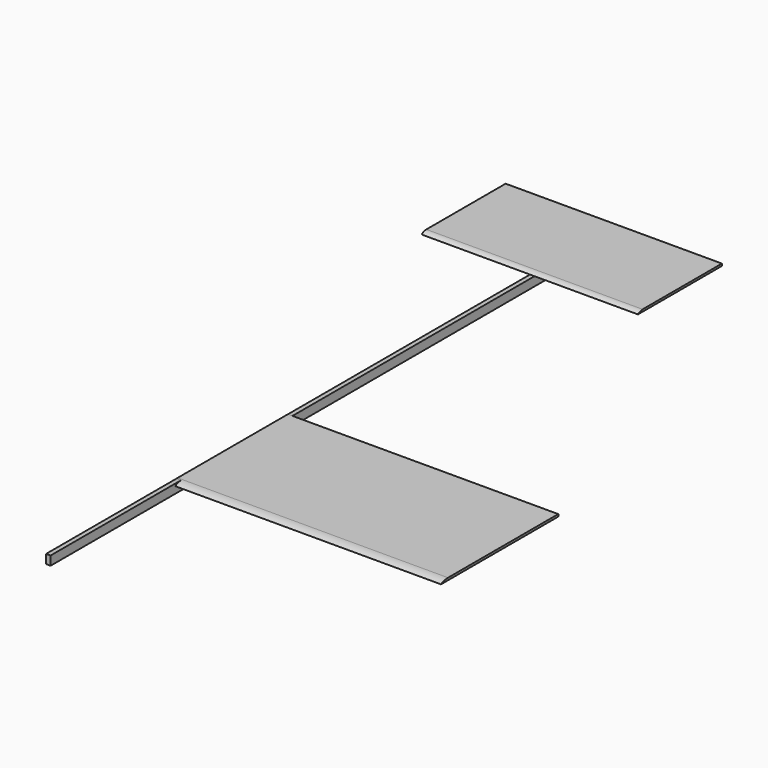
from build123d import *

# Parameters (mm, degrees)
F0_W     = 3.175
F0_H     = 6.35
F1_DEPTH = 500
F3_DEPTH = 76.2
F6_DEPTH = 190.5


with BuildPart() as f1:
    # F0 (on Front) → F1 (new body)
    with BuildSketch(Plane.XZ):
        with Locations((1.5875, 3.175)):
            Rectangle(F0_W, F0_H)
    extrude(amount=F1_DEPTH)

    # F5 (on Right) → F6 (join)
    with BuildSketch(Plane.YZ):
        with BuildLine():
            Line((-390.300279, 4.794227), (-287.0191, 4.794227))
            Line((-287.0191, 4.794227), (-287.0191, 6.394427))
            Line((-287.0191, 6.394427), (-384.12902, 6.394427))
            ThreePointArc((-384.12902, 6.394427), (-387.316694, 5.98787), (-390.300279, 4.794227))
        make_face()
    extrude(amount=F6_DEPTH)


with BuildPart() as f3:
    # F2 (on Right) → F3 (new body)
    with BuildSketch(Plane.YZ):
        with BuildLine():
            Line((0, 6.449902), (0, 7.95))
            Line((0, 7.95), (-69.85, 7.95))
            ThreePointArc((-69.85, 7.95), (-72.032387, 7.563194), (-73.948896, 6.449902))
            Line((-73.948896, 6.449902), (0, 6.449902))
        make_face()
    extrude(amount=F3_DEPTH)

    # F4: F3 across plane


with BuildPart() as f3_1:
    add(f3.part)
    add(f3.part.mirror(Plane.YZ))


solid = Compound([f1.part, f3_1.part])
